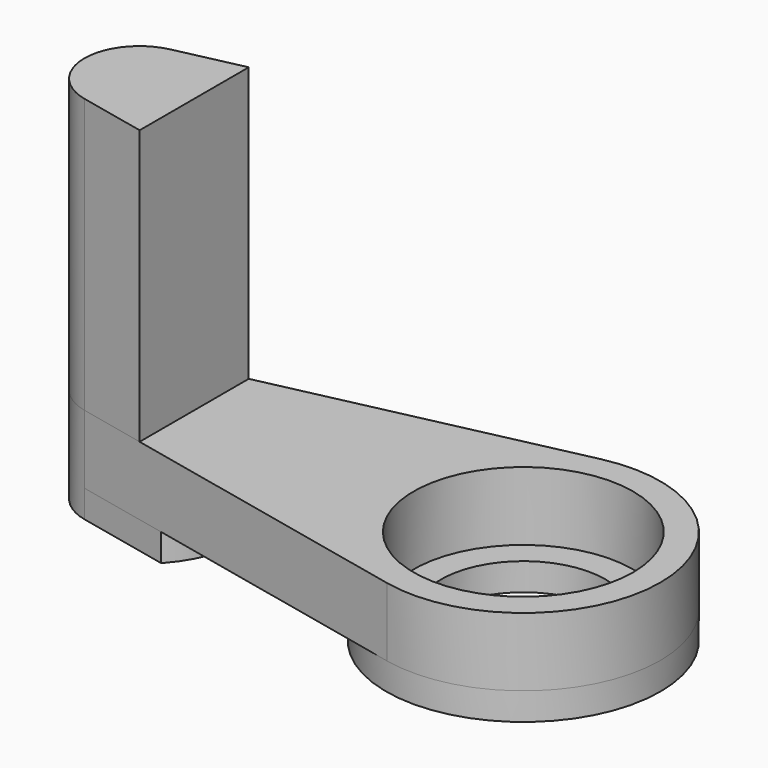
from build123d import *

# Parameters (mm, degrees)
SKETCH_R      = 8
PAD_DEPTH     = 5
PAD001_DEPTH  = 20
SKETCH002_R   = 10
SKETCH002_R_2 = 6
PAD002_DEPTH  = 2
PAD003_DEPTH  = 2


with BuildPart() as part:
    # Sketch → Pad (new body)
    with BuildSketch(Plane.XY):
        with BuildLine():
            ThreePointArc((-2.142857, -9.76771), (10, 0), (-2.142857, 9.76771))
            Line((-28.857143, 3.907084), (-2.142857, 9.76771))
            ThreePointArc((-28.857143, 3.907084), (-32, 0), (-28.857143, -3.907084))
            Line((-2.142857, -9.76771), (-28.857143, -3.907084))
        make_face()
        Circle(SKETCH_R, mode=Mode.SUBTRACT)
    extrude(amount=PAD_DEPTH)

    # Sketch001 (on Face7 of Pad) → Pad001 (join)
    with BuildSketch(Plane.XY.offset(5)):
        with BuildLine():
            ThreePointArc((-28.857143, 3.907084), (-32, -1.3e-05), (-28.857117, -3.90709))
            Line((-24, -4.972619), (-28.857117, -3.90709))
            Line((-24, -4.972619), (-24, 4.972653))
            Line((-24, 4.972653), (-28.857143, 3.907084))
        make_face()
    extrude(amount=PAD001_DEPTH)

    # Sketch002 → Pad002 (join)
    with BuildSketch(Plane(origin=(0, 0, 0), x_dir=(1, 0, 0), z_dir=(0, 0, -1))):
        Circle(SKETCH002_R)
        Circle(SKETCH002_R_2, mode=Mode.SUBTRACT)
    extrude(amount=PAD002_DEPTH)

    # Sketch003 (on Face7 of Pad002) → Pad003 (join)
    with BuildSketch(Plane(origin=(0, 0, 0), x_dir=(1, 0, 0), z_dir=(0, 0, -1))):
        with BuildLine():
            ThreePointArc((-28.857143, 3.907084), (-32, 0), (-28.857143, -3.907084))
            Line((-28.857143, -3.907084), (-22.089875, -5.391699))
            ThreePointArc((-22.089875, -5.391699), (-20, 0), (-22.089875, 5.391699))
            Line((-22.089875, 5.391699), (-28.857143, 3.907084))
        make_face()
    extrude(amount=PAD003_DEPTH)


solid = part.part
